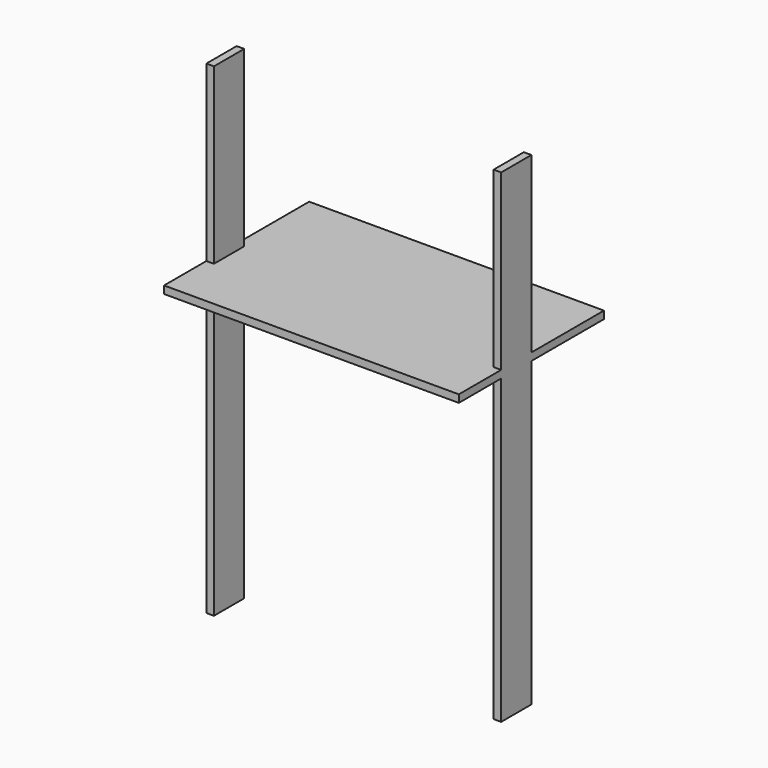
from build123d import *

# Parameters (mm, degrees)
F0_W          = 990.6
F0_H          = 609.6
F1_DEPTH      = 25.4
F2_W          = 25.4
F2_H          = 127
F3_DEPTH      = 1016
F3_DEPTH_BACK = 609.6


with BuildPart() as f1:
    # F0 (on Top) → F1 (new body)
    with BuildSketch(Plane.XY):
        with Locations((-495.3, 304.8)):
            Rectangle(F0_W, F0_H)
    extrude(amount=F1_DEPTH)

    # F2 (on face) → F3 (join, two sides)
    with BuildSketch(Plane(origin=(0, 0, 0), x_dir=(1, 0, 0), z_dir=(0, 0, -1))) as f3_sk:
        with Locations((-977.9, -241.3)):
            Rectangle(F2_W, F2_H)
        with Locations((-12.7, -241.3)):
            Rectangle(F2_W, F2_H)
    extrude(amount=F3_DEPTH)
    extrude(f3_sk.sketch, amount=-F3_DEPTH_BACK)


solid = f1.part
